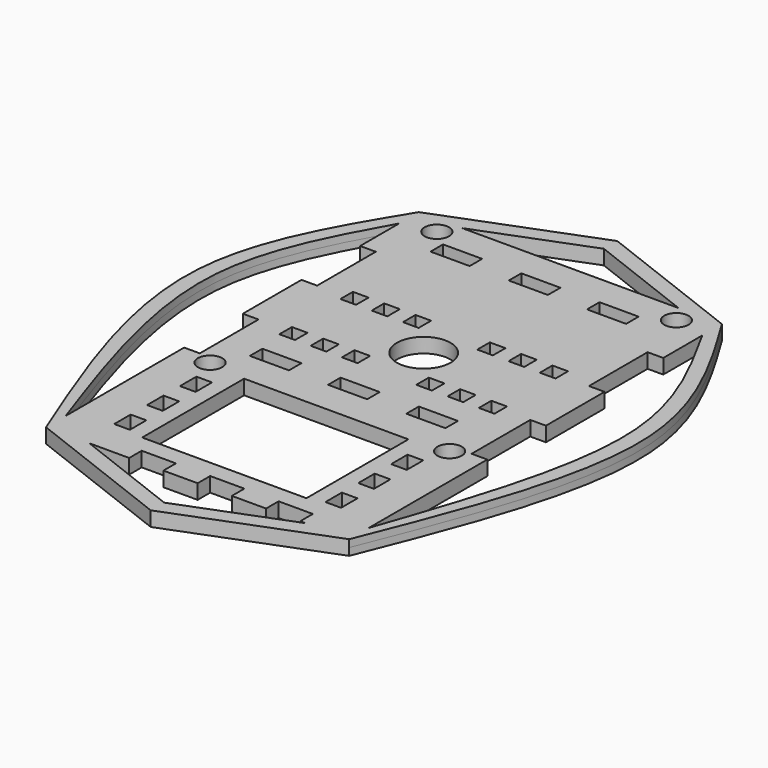
from build123d import *

# Parameters (mm, degrees)
F0_W     = 3.2
F0_H     = 4.2
F0_R     = 2.5
F0_W_2   = 8
F0_H_2   = 3.2
F0_W_3   = 33.5989631712
F0_H_3   = 26.0656554639
F0_R_2   = 5.5
F1_DEPTH = 1.5


with BuildPart() as f1:
    # F0 (on Top) → F1 (new body, symmetric)
    with BuildSketch(Plane.XY):
        with BuildLine():
            Line((0, -69.8), (31, -57.8))
            add(Edge.make_bspline(
                [(31, 37.5), (38.1511552694, 25.7567925156), (53.9932959403, -0.2582411241), (39.1454927008, -37.415537584), (31, -57.8)],
                knots=[0, 0, 0, 0, 0.4514008187, 1, 1, 1, 1], degree=3))
            Line((31, 37.5), (0, 49.5))
            Line((0, 49.5), (-31, 37.5))
            add(Edge.make_bspline(
                [(-31, 37.5), (-38.1511552694, 25.7567925156), (-53.9932959403, -0.2582411241), (-39.1454927008, -37.415537584), (-31, -57.8)],
                knots=[0, 0, 0, 0, 0.4514008187, 1, 1, 1, 1], degree=3))
            Line((-31, -57.8), (0, -69.8))
        make_face()
        with Locations((-21.6, -48.02561)):
            Rectangle(F0_W, F0_H, mode=Mode.SUBTRACT)
        with Locations((-21.6, -39.62561)):
            Rectangle(F0_W, F0_H, mode=Mode.SUBTRACT)
        with Locations((-21.6, -31.22561)):
            Rectangle(F0_W, F0_H, mode=Mode.SUBTRACT)
        with Locations((-24.5, -24)):
            Circle(F0_R, mode=Mode.SUBTRACT)
        with Locations((-17, -16.6)):
            Rectangle(F0_W_2, F0_H_2, mode=Mode.SUBTRACT)
        with Locations((-1, -16.6)):
            Rectangle(F0_W_2, F0_H_2, mode=Mode.SUBTRACT)
        Polygon((0, -66.37), (-22.14, -57.8), (-14, -57.8), (-14, -54.6), (-7, -54.6), (-7, -57.8), (0, -57.8), (0, -54.6), (7, -54.6), (7, -57.8), (14, -57.8), (14, -54.6), (21, -54.6), (21, -57.8), (22.14, -57.8), align=None, mode=Mode.SUBTRACT)
        with Locations((21.6, -48.02561)):
            Rectangle(F0_W, F0_H, mode=Mode.SUBTRACT)
        with Locations((0, -37.95)):
            Rectangle(F0_W_3, F0_H_3, mode=Mode.SUBTRACT)
        with Locations((21.6, -39.62561)):
            Rectangle(F0_W, F0_H, mode=Mode.SUBTRACT)
        with Locations((21.6, -31.22561)):
            Rectangle(F0_W, F0_H, mode=Mode.SUBTRACT)
        with Locations((24.5, -24)):
            Circle(F0_R, mode=Mode.SUBTRACT)
        with Locations((15, -16.6)):
            Rectangle(F0_W_2, F0_H_2, mode=Mode.SUBTRACT)
        with BuildLine():
            Line((-31, -22.5), (-31, -32.5))
            Line((-31, -32.5), (-31, -52.8))
            add(Edge.make_bspline(
                [(-31, 32.5), (-36.5997895584, 22.3876839263), (-49.2002368333, -0.3666899989), (-37.5003288582, -34.0731141218), (-31, -52.8)],
                knots=[0, 0, 0, 0, 0.444411967, 1, 1, 1, 1], degree=3))
            Line((-31, 32.5), (-31, 22.5))
            Line((-31, 22.5), (-27.8, 22.5))
            Line((-27.8, 22.5), (-27.8, 7.5))
            Line((-27.8, 7.5), (-31, 7.5))
            Line((-31, 7.5), (-31, -7.5))
            Line((-31, -7.5), (-27.8, -7.5))
            Line((-27.8, -7.5), (-27.8, -22.5))
            Line((-27.8, -22.5), (-31, -22.5))
        make_face(mode=Mode.SUBTRACT)
        with Locations((-20.4, -7.8)):
            Rectangle(F0_W, F0_H_2, mode=Mode.SUBTRACT)
        with Locations((-14, -7.8)):
            Rectangle(F0_W, F0_H_2, mode=Mode.SUBTRACT)
        with Locations((-7.6, -7.8)):
            Rectangle(F0_W, F0_H_2, mode=Mode.SUBTRACT)
        with Locations((-20.4, 7.8)):
            Rectangle(F0_W, F0_H_2, mode=Mode.SUBTRACT)
        with Locations((-14, 7.8)):
            Rectangle(F0_W, F0_H_2, mode=Mode.SUBTRACT)
        with Locations((-7.6, 7.8)):
            Rectangle(F0_W, F0_H_2, mode=Mode.SUBTRACT)
        with Locations((-24.5, 34)):
            Circle(F0_R, mode=Mode.SUBTRACT)
        with Locations((-17, 29.6)):
            Rectangle(F0_W_2, F0_H_2, mode=Mode.SUBTRACT)
        with Locations((-1, 29.6)):
            Rectangle(F0_W_2, F0_H_2, mode=Mode.SUBTRACT)
        Polygon((22.1355892594, 37.5), (0, 37.5), (-22.1355892594, 37.5), (0, 46.0686151972), align=None, mode=Mode.SUBTRACT)
        with Locations((7.6, -7.8)):
            Rectangle(F0_W, F0_H_2, mode=Mode.SUBTRACT)
        Circle(F0_R_2, mode=Mode.SUBTRACT)
        with Locations((14, -7.8)):
            Rectangle(F0_W, F0_H_2, mode=Mode.SUBTRACT)
        with Locations((20.4, -7.8)):
            Rectangle(F0_W, F0_H_2, mode=Mode.SUBTRACT)
        with Locations((7.6, 7.8)):
            Rectangle(F0_W, F0_H_2, mode=Mode.SUBTRACT)
        with Locations((14, 7.8)):
            Rectangle(F0_W, F0_H_2, mode=Mode.SUBTRACT)
        with Locations((20.4, 7.8)):
            Rectangle(F0_W, F0_H_2, mode=Mode.SUBTRACT)
        with BuildLine():
            Line((27.8, 7.5), (27.8, 22.5))
            Line((27.8, 22.5), (31, 22.5))
            Line((31, 22.5), (31, 32.5))
            add(Edge.make_bspline(
                [(31, 32.5), (36.5997895584, 22.3876839263), (49.2002368333, -0.3666899989), (37.5003288582, -34.0731141218), (31, -52.8)],
                knots=[0, 0, 0, 0, 0.444411967, 1, 1, 1, 1], degree=3))
            Line((31, -52.8), (31, -32.5))
            Line((31, -32.5), (31, -22.5))
            Line((31, -22.5), (27.8, -22.5))
            Line((27.8, -22.5), (27.8, -7.5))
            Line((27.8, -7.5), (31, -7.5))
            Line((31, -7.5), (31, 7.5))
            Line((31, 7.5), (27.8, 7.5))
        make_face(mode=Mode.SUBTRACT)
        with Locations((15, 29.6)):
            Rectangle(F0_W_2, F0_H_2, mode=Mode.SUBTRACT)
        with Locations((24.5, 34)):
            Circle(F0_R, mode=Mode.SUBTRACT)
    extrude(amount=F1_DEPTH, both=True)


solid = f1.part
